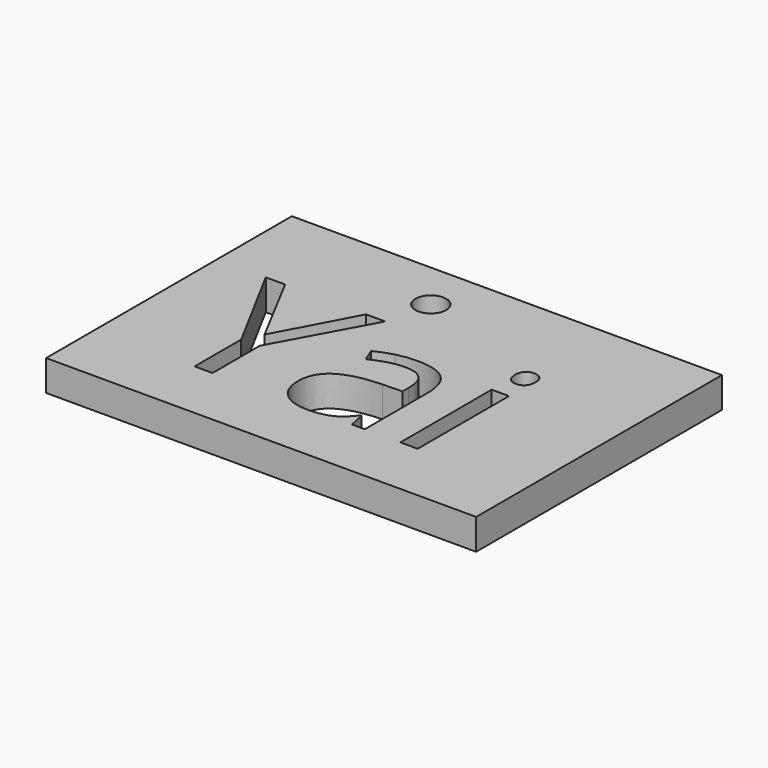
from build123d import *

# Parameters (mm, degrees)
F0_W     = 70
F0_H     = 50
F0_W_2   = 2.8157552083
F0_H_2   = 18.5818142361
F0_R     = 2.5
F1_DEPTH = 5


with BuildPart() as f1:
    # F0 (on Top) → F1 (new body)
    with BuildSketch(Plane.XY):
        with Locations((-35, 25)):
            Rectangle(F0_W, F0_H)
        Polygon((-58.9236111111, 34.7884114583), (-52.3589409722, 22.3914930556), (-45.7508680556, 34.7884114583), (-42.6312934028, 34.7884114583), (-50.9049479167, 19.6137152778), (-50.9049479167, 10), (-53.818359375, 10), (-53.818359375, 19.4780815972), (-62.0757378472, 34.7884114583), align=None, mode=Mode.SUBTRACT)
        with BuildLine():
            Line((-26.1328125, 10), (-28.2215711806, 10))
            Line((-28.2215711806, 10), (-28.7803819444, 12.6475694444))
            Line((-28.7803819444, 12.6475694444), (-28.916015625, 12.6475694444))
            add(Edge.make_bspline(
                [(-28.916015625, 12.6475694444), (-30.3049045139, 10.9006076389), (-31.6856553819, 10.2794053819)],
                knots=[0, 0, 0, 1, 1, 1], degree=2))
            add(Edge.make_bspline(
                [(-31.6856553819, 10.2794053819), (-33.06640625, 9.658203125), (-35.1388888889, 9.658203125)],
                knots=[0, 0, 0, 1, 1, 1], degree=2))
            add(Edge.make_bspline(
                [(-35.1388888889, 9.658203125), (-37.900390625, 9.658203125), (-39.4683159722, 11.0850694444)],
                knots=[0, 0, 0, 1, 1, 1], degree=2))
            add(Edge.make_bspline(
                [(-39.4683159722, 11.0850694444), (-41.0362413194, 12.5119357639), (-41.0362413194, 15.1378038194)],
                knots=[0, 0, 0, 1, 1, 1], degree=2))
            add(Edge.make_bspline(
                [(-41.0362413194, 15.1378038194), (-41.0362413194, 20.7638888889), (-32.0355902778, 21.03515625)],
                knots=[0, 0, 0, 1, 1, 1], degree=2))
            Line((-32.0355902778, 21.03515625), (-28.8834635417, 21.1382378472))
            Line((-28.8834635417, 21.1382378472), (-28.8834635417, 22.2938368056))
            add(Edge.make_bspline(
                [(-28.8834635417, 22.2938368056), (-28.8834635417, 24.4802517361), (-29.8220486111, 25.5219184028)],
                knots=[0, 0, 0, 1, 1, 1], degree=2))
            add(Edge.make_bspline(
                [(-29.8220486111, 25.5219184028), (-30.7606336806, 26.5635850694), (-32.8331163194, 26.5635850694)],
                knots=[0, 0, 0, 1, 1, 1], degree=2))
            add(Edge.make_bspline(
                [(-32.8331163194, 26.5635850694), (-35.1551649306, 26.5635850694), (-38.0848524306, 25.1421440972)],
                knots=[0, 0, 0, 1, 1, 1], degree=2))
            Line((-38.0848524306, 25.1421440972), (-38.9529079861, 27.2960069444))
            add(Edge.make_bspline(
                [(-38.9529079861, 27.2960069444), (-37.5802951389, 28.0392795139), (-35.9445529514, 28.4624565972)],
                knots=[0, 0, 0, 1, 1, 1], degree=2))
            add(Edge.make_bspline(
                [(-35.9445529514, 28.4624565972), (-34.3088107639, 28.8856336806), (-32.6595052083, 28.8856336806)],
                knots=[0, 0, 0, 1, 1, 1], degree=2))
            add(Edge.make_bspline(
                [(-32.6595052083, 28.8856336806), (-29.3391927083, 28.8856336806), (-27.7360026042, 27.4126519097)],
                knots=[0, 0, 0, 1, 1, 1], degree=2))
            add(Edge.make_bspline(
                [(-27.7360026042, 27.4126519097), (-26.1328125, 25.9396701389), (-26.1328125, 22.6844618056)],
                knots=[0, 0, 0, 1, 1, 1], degree=2))
            Line((-26.1328125, 22.6844618056), (-26.1328125, 10))
        make_face(mode=Mode.SUBTRACT)
        with Locations((-18.9306640625, 19.2909071181)):
            Rectangle(F0_W_2, F0_H_2, mode=Mode.SUBTRACT)
        with Locations((-41.0378689236, 42.0710678119)):
            Circle(F0_R, mode=Mode.SUBTRACT)
        with BuildLine():
            add(Edge.make_bspline(
                [(-20.1025390625, 32.2005208333), (-20.5772569444, 32.6671006944), (-20.5772569444, 33.6165364583)],
                knots=[0, 0, 0, 1, 1, 1], degree=2))
            add(Edge.make_bspline(
                [(-20.5772569444, 33.6165364583), (-20.5772569444, 34.5822482639), (-20.1025390625, 35.0325520833)],
                knots=[0, 0, 0, 1, 1, 1], degree=2))
            add(Edge.make_bspline(
                [(-20.1025390625, 35.0325520833), (-19.6278211806, 35.4828559028), (-18.9116753472, 35.4828559028)],
                knots=[0, 0, 0, 1, 1, 1], degree=2))
            add(Edge.make_bspline(
                [(-18.9116753472, 35.4828559028), (-18.2335069444, 35.4828559028), (-17.7425130208, 35.0244140625)],
                knots=[0, 0, 0, 1, 1, 1], degree=2))
            add(Edge.make_bspline(
                [(-17.7425130208, 35.0244140625), (-17.2515190972, 34.5659722222), (-17.2515190972, 33.6165364583)],
                knots=[0, 0, 0, 1, 1, 1], degree=2))
            add(Edge.make_bspline(
                [(-17.2515190972, 33.6165364583), (-17.2515190972, 32.6671006944), (-17.7425130208, 32.2005208333)],
                knots=[0, 0, 0, 1, 1, 1], degree=2))
            add(Edge.make_bspline(
                [(-17.7425130208, 32.2005208333), (-18.2335069444, 31.7339409722), (-18.9116753472, 31.7339409722)],
                knots=[0, 0, 0, 1, 1, 1], degree=2))
            add(Edge.make_bspline(
                [(-18.9116753472, 31.7339409722), (-19.6278211806, 31.7339409722), (-20.1025390625, 32.2005208333)],
                knots=[0, 0, 0, 1, 1, 1], degree=2))
        make_face(mode=Mode.SUBTRACT)
    extrude(amount=F1_DEPTH)


solid = f1.part
